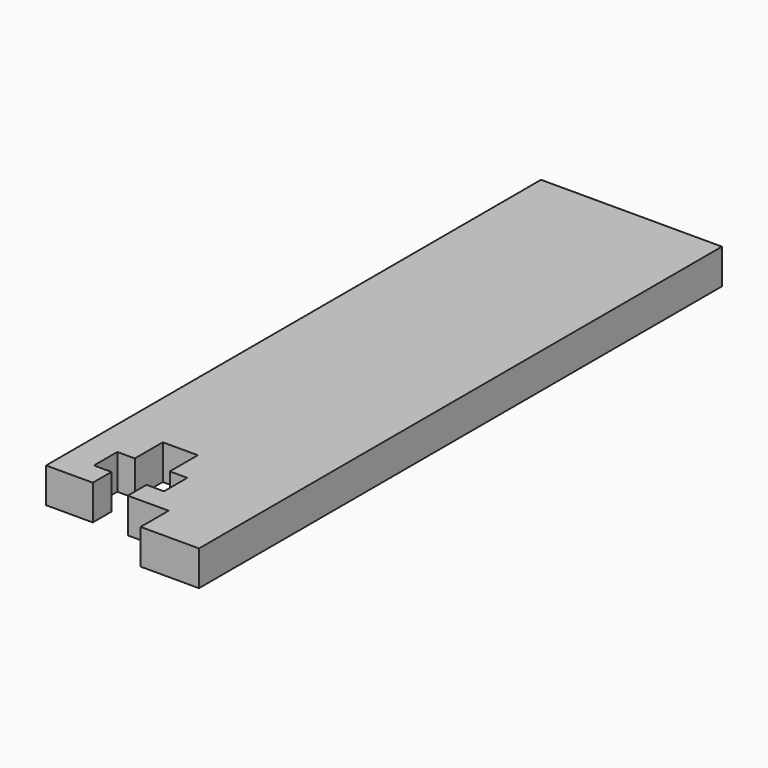
from build123d import *

# Parameters (mm, degrees)
F1_DEPTH = 3


with BuildPart() as f1:
    # F0 (on Top) → F1 (new body)
    with BuildSketch(Plane.XY):
        Polygon((0, 53), (0, 0), (4, 0), (4, 2), (2.5, 2), (2.5, 4.5), (4, 4.5), (4, 7.5), (7, 7.5), (7, 4.5), (8.5, 4.5), (8.5, 2), (7, 2), (7, 0), (10.5, 0), (10.5, -3), (15.5, -3), (15.5, 53), align=None)
    extrude(amount=F1_DEPTH)


solid = f1.part
